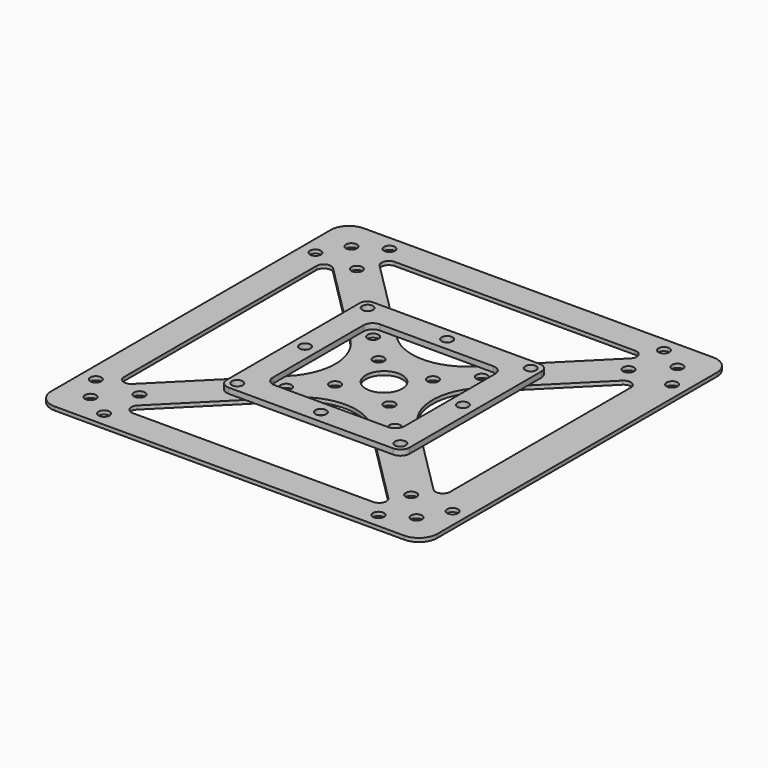
from build123d import *

# Parameters (mm, degrees)
F0_R     = 1.5
F0_R_2   = 5
F1_DEPTH = 1
F2_R     = 1.5
F3_DEPTH = 1.5


with BuildPart() as f1:
    # F0 (on Top) → F1 (new body)
    with BuildSketch(Plane.XY):
        with BuildLine():
            Line((47.75, 52.75), (-47.75, 52.75))
            ThreePointArc((-47.75, 52.75), (-51.285534, 51.285534), (-52.75, 47.75))
            Line((-52.75, 47.75), (-52.75, -47.75))
            ThreePointArc((-52.75, -47.75), (-51.285534, -51.285534), (-47.75, -52.75))
            Line((-47.75, -52.75), (47.75, -52.75))
            ThreePointArc((47.75, -52.75), (51.285534, -51.285534), (52.75, -47.75))
            Line((52.75, -47.75), (52.75, 47.75))
            ThreePointArc((52.75, 47.75), (51.285534, 51.285534), (47.75, 52.75))
        make_face()
        with Locations((-44.547727, -44.547727)):
            Circle(F0_R, mode=Mode.SUBTRACT)
        with Locations((-37.5, -48.75)):
            Circle(F0_R, mode=Mode.SUBTRACT)
        with Locations((-48.75, -37.5)):
            Circle(F0_R, mode=Mode.SUBTRACT)
        with Locations((-37.123106, -37.123106)):
            Circle(F0_R, mode=Mode.SUBTRACT)
        with Locations((-22.273864, -22.273864)):
            Circle(F0_R, mode=Mode.SUBTRACT)
        with Locations((-14.849242, -14.849242)):
            Circle(F0_R, mode=Mode.SUBTRACT)
        with Locations((-7.424621, -7.424621)):
            Circle(F0_R, mode=Mode.SUBTRACT)
        with BuildLine():
            Line((32.850505, -44.75), (-32.850505, -44.75))
            ThreePointArc((-32.850505, -44.75), (-34.698264, -43.515367), (-34.264719, -41.335786))
            Line((-34.264719, -41.335786), (-10.606602, -17.67767))
            ThreePointArc((-10.606602, -17.67767), (0, -13.284271), (10.606602, -17.67767))
            Line((10.606602, -17.67767), (34.264719, -41.335786))
            ThreePointArc((34.264719, -41.335786), (34.698264, -43.515367), (32.850505, -44.75))
        make_face(mode=Mode.SUBTRACT)
        with Locations((37.5, -48.75)):
            Circle(F0_R, mode=Mode.SUBTRACT)
        with Locations((44.547727, -44.547727)):
            Circle(F0_R, mode=Mode.SUBTRACT)
        with Locations((37.123106, -37.123106)):
            Circle(F0_R, mode=Mode.SUBTRACT)
        with Locations((48.75, -37.5)):
            Circle(F0_R, mode=Mode.SUBTRACT)
        with Locations((22.273864, -22.273864)):
            Circle(F0_R, mode=Mode.SUBTRACT)
        with Locations((14.849242, -14.849242)):
            Circle(F0_R, mode=Mode.SUBTRACT)
        with Locations((7.424621, -7.424621)):
            Circle(F0_R, mode=Mode.SUBTRACT)
        with BuildLine():
            Line((-44.75, -32.850505), (-44.75, 32.850505))
            ThreePointArc((-44.75, 32.850505), (-43.515367, 34.698264), (-41.335786, 34.264719))
            Line((-41.335786, 34.264719), (-17.67767, 10.606602))
            ThreePointArc((-17.67767, 10.606602), (-13.284271, 0), (-17.67767, -10.606602))
            Line((-17.67767, -10.606602), (-41.335786, -34.264719))
            ThreePointArc((-41.335786, -34.264719), (-43.515367, -34.698264), (-44.75, -32.850505))
        make_face(mode=Mode.SUBTRACT)
        with Locations((-7.424621, 7.424621)):
            Circle(F0_R, mode=Mode.SUBTRACT)
        with Locations((-14.849242, 14.849242)):
            Circle(F0_R, mode=Mode.SUBTRACT)
        with Locations((-22.273864, 22.273864)):
            Circle(F0_R, mode=Mode.SUBTRACT)
        with Locations((-48.75, 37.5)):
            Circle(F0_R, mode=Mode.SUBTRACT)
        with Locations((-37.123106, 37.123106)):
            Circle(F0_R, mode=Mode.SUBTRACT)
        with Locations((-44.547727, 44.547727)):
            Circle(F0_R, mode=Mode.SUBTRACT)
        with Locations((-37.5, 48.75)):
            Circle(F0_R, mode=Mode.SUBTRACT)
        with BuildLine():
            ThreePointArc((-34.264719, 41.335786), (-34.698264, 43.515367), (-32.850505, 44.75))
            Line((-32.850505, 44.75), (32.850505, 44.75))
            ThreePointArc((32.850505, 44.75), (34.698264, 43.515367), (34.264719, 41.335786))
            Line((34.264719, 41.335786), (10.606602, 17.67767))
            ThreePointArc((10.606602, 17.67767), (0, 13.284271), (-10.606602, 17.67767))
            Line((-10.606602, 17.67767), (-34.264719, 41.335786))
        make_face(mode=Mode.SUBTRACT)
        Circle(F0_R_2, mode=Mode.SUBTRACT)
        with Locations((7.424621, 7.424621)):
            Circle(F0_R, mode=Mode.SUBTRACT)
        with Locations((14.849242, 14.849242)):
            Circle(F0_R, mode=Mode.SUBTRACT)
        with Locations((22.273864, 22.273864)):
            Circle(F0_R, mode=Mode.SUBTRACT)
        with BuildLine():
            ThreePointArc((39.335786, 32.264719), (41.515367, 32.698264), (42.75, 30.850505))
            Line((42.75, 30.850505), (42.75, -30.850505))
            ThreePointArc((42.75, -30.850505), (41.515367, -32.698264), (39.335786, -32.264719))
            Line((39.335786, -32.264719), (17.67767, -10.606602))
            ThreePointArc((17.67767, -10.606602), (13.284271, 0), (17.67767, 10.606602))
            Line((17.67767, 10.606602), (39.335786, 32.264719))
        make_face(mode=Mode.SUBTRACT)
        with Locations((37.123106, 37.123106)):
            Circle(F0_R, mode=Mode.SUBTRACT)
        with Locations((48.75, 37.5)):
            Circle(F0_R, mode=Mode.SUBTRACT)
        with Locations((37.5, 48.75)):
            Circle(F0_R, mode=Mode.SUBTRACT)
        with Locations((44.547727, 44.547727)):
            Circle(F0_R, mode=Mode.SUBTRACT)
    extrude(amount=F1_DEPTH)


with BuildPart() as f3:
    # F2 (on face) → F3 (new body)
    with BuildSketch(Plane.XY.offset(1)):
        with BuildLine():
            Line((-17.928932, 25), (-23, 25))
            ThreePointArc((-23, 25), (-24.414214, 24.414214), (-25, 23))
            Line((-25, 23), (-25, 17.928932))
            Line((-25, 17.928932), (-18, 10.928932))
            Line((-18, 10.928932), (-18, 15.5))
            ThreePointArc((-18, 15.5), (-17.267767, 17.267767), (-15.5, 18))
            Line((-15.5, 18), (-10.928932, 18))
            Line((-10.928932, 18), (-17.928932, 25))
        make_face()
        with Locations((-22.273864, 22.273864)):
            Circle(F2_R, mode=Mode.SUBTRACT)
        Polygon((17.928932, 25), (-17.928932, 25), (-10.928932, 18), (10.928932, 18), align=None)
        with Locations((0, 21.566757)):
            Circle(F2_R, mode=Mode.SUBTRACT)
        with BuildLine():
            Line((22.5, 25), (17.928932, 25))
            Line((17.928932, 25), (10.928932, 18))
            Line((10.928932, 18), (15.5, 18))
            ThreePointArc((15.5, 18), (17.267767, 17.267767), (18, 15.5))
            Line((18, 15.5), (18, 10.928932))
            Line((18, 10.928932), (25, 17.928932))
            Line((25, 17.928932), (25, 22.5))
            ThreePointArc((25, 22.5), (24.267767, 24.267767), (22.5, 25))
        make_face()
        with Locations((22.273864, 22.273864)):
            Circle(F2_R, mode=Mode.SUBTRACT)
        Polygon((25, -17.928932), (25, 17.928932), (18, 10.928932), (18, -10.928932), align=None)
        with Locations((21.566757, 0)):
            Circle(F2_R, mode=Mode.SUBTRACT)
        with BuildLine():
            Line((25, -22.5), (25, -17.928932))
            Line((25, -17.928932), (18, -10.928932))
            Line((18, -10.928932), (18, -15.5))
            ThreePointArc((18, -15.5), (17.267767, -17.267767), (15.5, -18))
            Line((15.5, -18), (10.928932, -18))
            Line((10.928932, -18), (17.928932, -25))
            Line((17.928932, -25), (22.5, -25))
            ThreePointArc((22.5, -25), (24.267767, -24.267767), (25, -22.5))
        make_face()
        with Locations((22.273864, -22.273864)):
            Circle(F2_R, mode=Mode.SUBTRACT)
        Polygon((-18, 10.928932), (-25, 17.928932), (-25, -17.928932), (-18, -10.928932), align=None)
        with Locations((-21.566757, 0)):
            Circle(F2_R, mode=Mode.SUBTRACT)
        with BuildLine():
            Line((-18, -10.928932), (-25, -17.928932))
            Line((-25, -17.928932), (-25, -22.5))
            ThreePointArc((-25, -22.5), (-24.267767, -24.267767), (-22.5, -25))
            Line((-22.5, -25), (-17.928932, -25))
            Line((-17.928932, -25), (-10.928932, -18))
            Line((-10.928932, -18), (-15.5, -18))
            ThreePointArc((-15.5, -18), (-17.267767, -17.267767), (-18, -15.5))
            Line((-18, -15.5), (-18, -10.928932))
        make_face()
        with Locations((-22.273864, -22.273864)):
            Circle(F2_R, mode=Mode.SUBTRACT)
        Polygon((-10.928932, -18), (-17.928932, -25), (17.928932, -25), (10.928932, -18), align=None)
        with Locations((0, -21.566757)):
            Circle(F2_R, mode=Mode.SUBTRACT)
    extrude(amount=F3_DEPTH)


solid = Compound([f1.part, f3.part])
